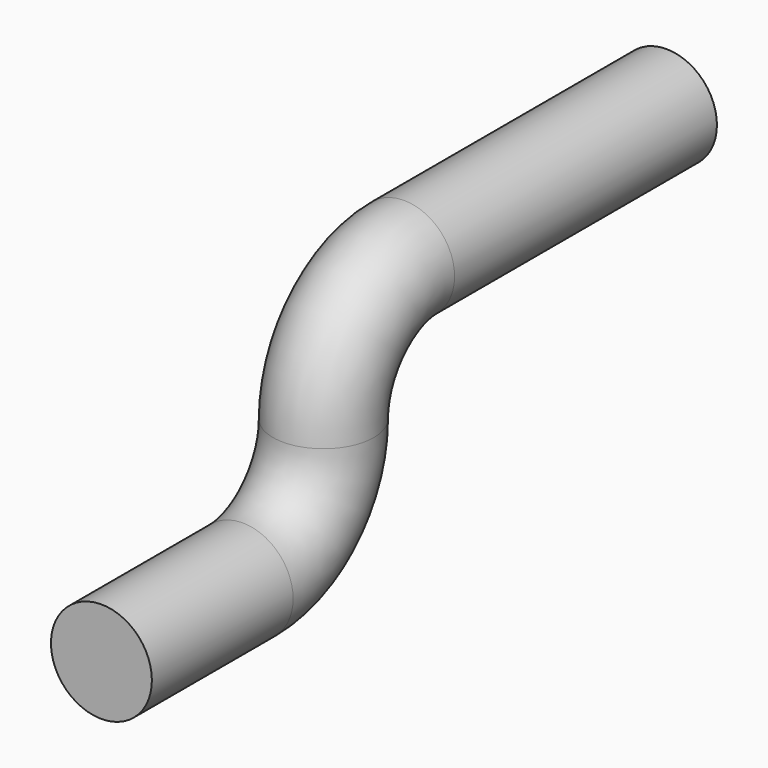
from build123d import *

# Parameters (mm, degrees)
F0_R = 10


with BuildPart() as f2:
    # F2: sweep along a path in F1
    with BuildLine(Plane.YZ) as f2_path:
        Line((0, 0), (35, 0))
        ThreePointArc((35, 0), (49.142136, 5.857864), (55, 20))
        ThreePointArc((55, 20), (60.857864, 34.142136), (75, 40))
        Line((75, 40), (140, 40))
    # F0 (on Front) → F2 (sweep)
    with BuildSketch(Plane.XZ):
        Circle(F0_R)
    sweep(path=f2_path.line)


solid = f2.part
